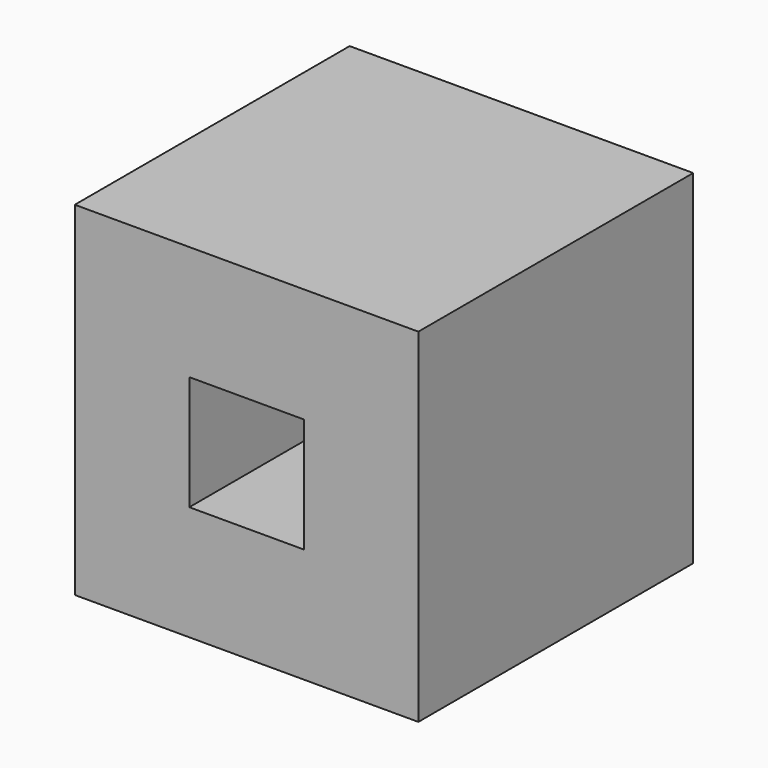
from build123d import *

# Parameters (mm, degrees)
F0_W      = 76.2
F0_H      = 76.2
F1_DEPTH  = 76.2
F2_W      = 25.4
F2_H      = 25.4
F3_DEPTH  = 25.4
F3_FACE_W = 25.4
F3_FACE_H = 25.4
F4_DEPTH  = 25.4
F5_W      = 25.4
F5_H      = 25.4
F6_DEPTH  = 25.4


with BuildPart() as f1:
    # F0 (on Front) → F1 (new body)
    with BuildSketch(Plane.XZ):
        Rectangle(F0_W, F0_H)
    extrude(amount=F1_DEPTH)

    # F2 (on face) → F3 (cut)
    with BuildSketch(Plane(origin=(0, 0, 0), x_dir=(-1, 0, 0), z_dir=(0, 1, 0))):
        Rectangle(F2_W, F2_H)
    extrude(amount=-F3_DEPTH, mode=Mode.SUBTRACT)

    # F3_face (on face) → F4 (cut)
    with BuildSketch(Plane(origin=(0, -25.4, 0), x_dir=(-1, 0, 0), z_dir=(0, 1, 0))):
        Rectangle(F3_FACE_W, F3_FACE_H)
    extrude(amount=-F4_DEPTH, mode=Mode.SUBTRACT)

    # F5 (on face) → F6 (cut)
    with BuildSketch(Plane.XZ.offset(76.2)):
        Rectangle(F5_W, F5_H)
    extrude(amount=-F6_DEPTH, mode=Mode.SUBTRACT)


solid = f1.part
